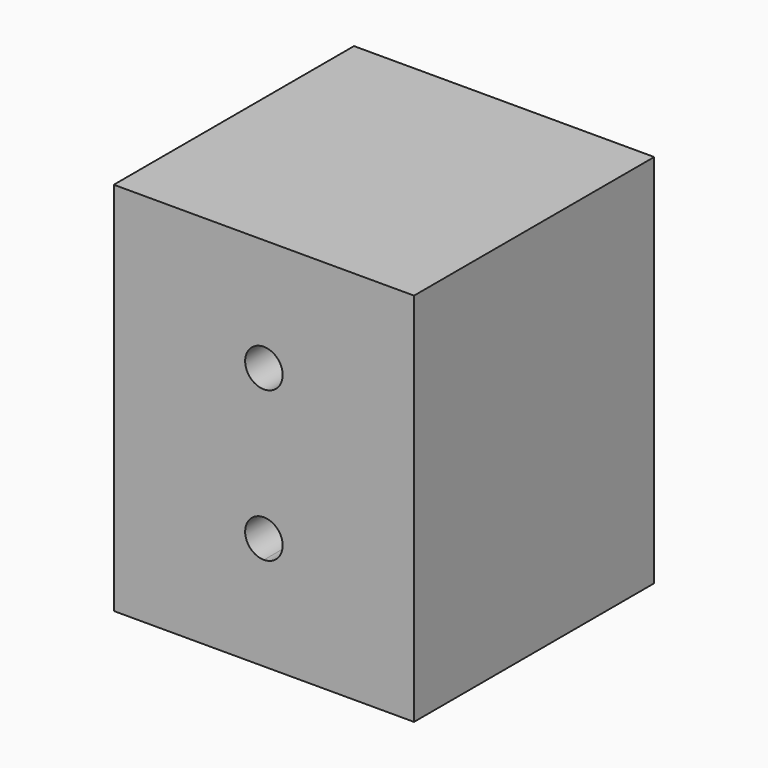
from build123d import *

# Parameters (mm, degrees)
F0_W     = 40
F0_H     = 40
F1_DEPTH = 50
F2_R     = 6
F3_DEPTH = 40
F5_DEPTH = 13
F6_DEPTH = 20


with BuildPart() as f1:
    # F0 (on Top) → F1 (new body)
    with BuildSketch(Plane.XY):
        Rectangle(F0_W, F0_H)
    extrude(amount=F1_DEPTH)

    # F2 (on face) → F3 (cut)
    with BuildSketch(Plane(origin=(0, 0, 0), x_dir=(1, 0, 0), z_dir=(0, 0, -1))):
        Circle(F2_R)
    extrude(amount=-F3_DEPTH, mode=Mode.SUBTRACT)

    # F4 (on face) → F5 (cut)
    with BuildSketch(Plane.XZ.offset(20)):
        with BuildLine():
            ThreePointArc((2.5, 35), (1.767766953, 36.767766953), (0, 37.5))
            ThreePointArc((0, 37.5), (-1.767766953, 33.232233047), (2.5, 35))
        make_face()
        with BuildLine():
            ThreePointArc((2.5, 15), (-1.767766953, 16.767766953), (0, 12.5))
            ThreePointArc((0, 12.5), (1.767766953, 13.232233047), (2.5, 15))
        make_face()
    extrude(amount=-F5_DEPTH, mode=Mode.SUBTRACT)

    # F6 (cut): a face of the model
    f6_faces = [f1.faces().sort_by_distance(p)[0] for p in [
        (0, 20, 25),
    ]]
    extrude(f6_faces, amount=-F6_DEPTH, mode=Mode.SUBTRACT)

    # F7: F1 across plane


with BuildPart() as f1_1:
    add(f1.part)
    add(f1.part.mirror(Plane.XZ))


solid = f1_1.part
